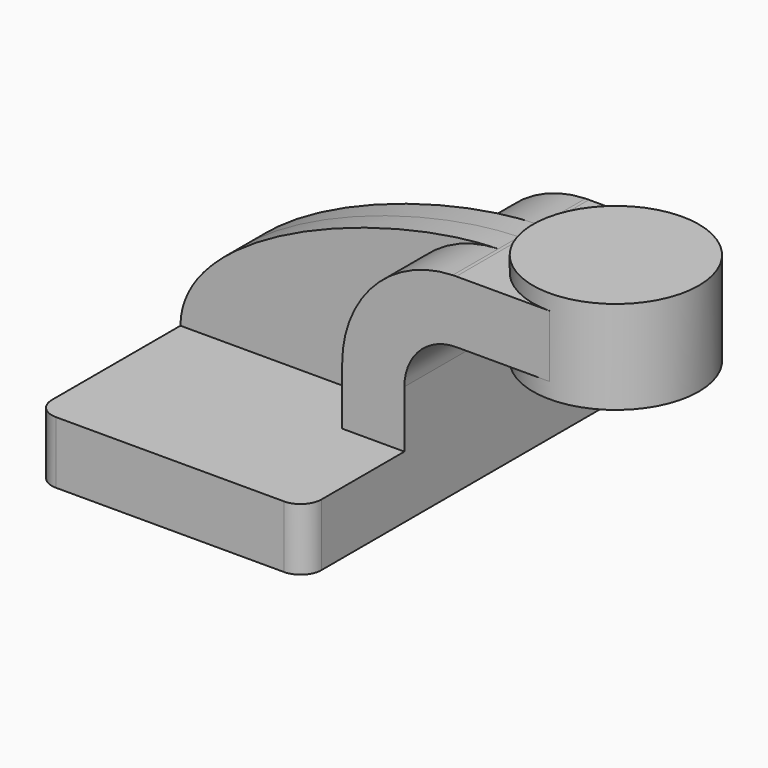
from build123d import *

# Parameters (mm, degrees)
F1_DEPTH = 63.5
F0_W     = 25.4
F0_H     = 19.05
F2_DEPTH = 25.4
F3_DEPTH = 7.9375
F5_R     = 6.35


with BuildPart() as f1:
    # F0 (on Front) → F1 (new body, symmetric)
    with BuildSketch(Plane.XZ):
        Polygon((-41.275, -9.525), (41.275, -9.525), (41.275, 9.525), (22.225, 9.525), (-41.275, 9.525), align=None)
    extrude(amount=F1_DEPTH, both=True)

    # F0 (on Front) → F2 (join, symmetric)
    with BuildSketch(Plane.XZ):
        with Locations((73.025, 52.4002)):
            Rectangle(F0_W, F0_H)
        with BuildLine():
            Line((22.225, 9.525), (41.275, 9.525))
            Line((41.275, 9.525), (41.275, 27.0002))
            ThreePointArc((41.275, 27.0002), (45.9246798487, 38.2255201513), (57.15, 42.8752))
            Line((57.15, 42.8752), (60.325, 42.8752))
            Line((60.325, 42.8752), (60.325, 61.9252))
            Line((60.325, 61.9252), (57.15, 61.9252))
            add(Edge.make_bspline(
                [(56.0893351364, 61.9090902007), (56.4456274425, 61.9167445082), (56.7992126462, 61.9221202842), (57.15, 61.9252)],
                knots=[110.3910816618, 110.3910816618, 110.3910816618, 110.3910816618, 111.5045361635, 111.5045361635, 111.5045361635, 111.5045361635], degree=3))
            ThreePointArc((56.0893351364, 61.9090902007), (32.082098758, 51.3180114212), (22.225, 27.0002))
            Line((22.225, 27.0002), (22.225, 9.525))
        make_face()
    extrude(amount=F2_DEPTH, both=True)

    # F0 (on Front) → F3 (join, symmetric)
    with BuildSketch(Plane.XZ):
        with BuildLine():
            add(Edge.make_bspline(
                [(-41.275, 9.525), (-41.167300735, 37.9949573937), (20.7654911939, 61.1502201412), (56.0893351364, 61.9090902007)],
                knots=[0, 0, 0, 0, 110.3910816618, 110.3910816618, 110.3910816618, 110.3910816618], degree=3))
            Line((-41.275, 9.525), (22.225, 9.525))
            Line((22.225, 9.525), (22.225, 27.0002))
            ThreePointArc((22.225, 27.0002), (32.082098758, 51.3180114212), (56.0893351364, 61.9090902007))
        make_face()
    extrude(amount=F3_DEPTH, both=True)

    # F0 (on Front) → F4 (revolve)
    with BuildSketch(Plane.XZ):
        Polygon((85.725, 61.9252), (85.725, 42.8752), (85.725, 38.1), (111.125, 38.1), (111.125, 66.675), (85.725, 66.675), align=None)
    revolve(axis=Axis((85.725, 0, 52.3875), (0, 0, 1)))

    # F5
    f5_edges = [f1.edges().sort_by_distance(p)[0] for p in [
        (-41.275, -63.5, 0),
        (41.275, -63.5, 0),
        (41.275, 63.5, 0),
        (-41.275, 63.5, 0),
    ]]
    fillet(f5_edges, radius=F5_R)


solid = f1.part
